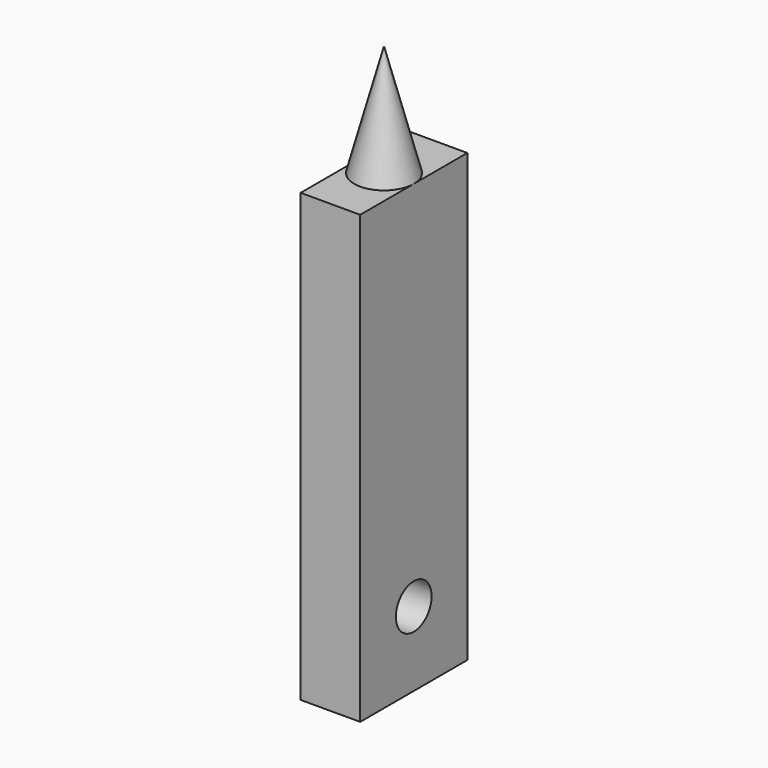
from build123d import *

# Parameters (mm, degrees)
SKETCH_W    = 80
SKETCH_H    = 180
PAD_DEPTH   = 600
SKETCH001_R = 30
HOLE_DEPTH  = 80
HOLE_TIPS_R = 30


with BuildPart() as part:
    # Sketch → Pad (new body)
    with BuildSketch(Plane.XY):
        Rectangle(SKETCH_W, SKETCH_H)
    extrude(amount=PAD_DEPTH)

    # Sketch001 (on Face3 of Pad) → Hole (cut)
    with BuildSketch(Plane.YZ.offset(40)):
        with Locations((0, 100)):
            Circle(SKETCH001_R)
    extrude(amount=-HOLE_DEPTH, mode=Mode.SUBTRACT)

    # Hole tips → Hole tip 1 section 0
    with BuildSketch(Plane.YZ.offset(-40), mode=Mode.PRIVATE) as hole_tip_1_s0:
        with Locations((0, 100)):
            Circle(HOLE_TIPS_R)
    loft([hole_tip_1_s0.sketch, Vertex(-58.025819, 0, 100)], mode=Mode.SUBTRACT)

    # Cone → Cone (revolve)
    with BuildSketch(Plane(origin=(0, 0, 750), x_dir=(1, 0, 0), z_dir=(0, 1, 0))):
        Polygon((0, 0), (40, 150), (0, 150), align=None)
    revolve(axis=Axis((0, 0, 750), (0, 0, -1)))


solid = part.part
